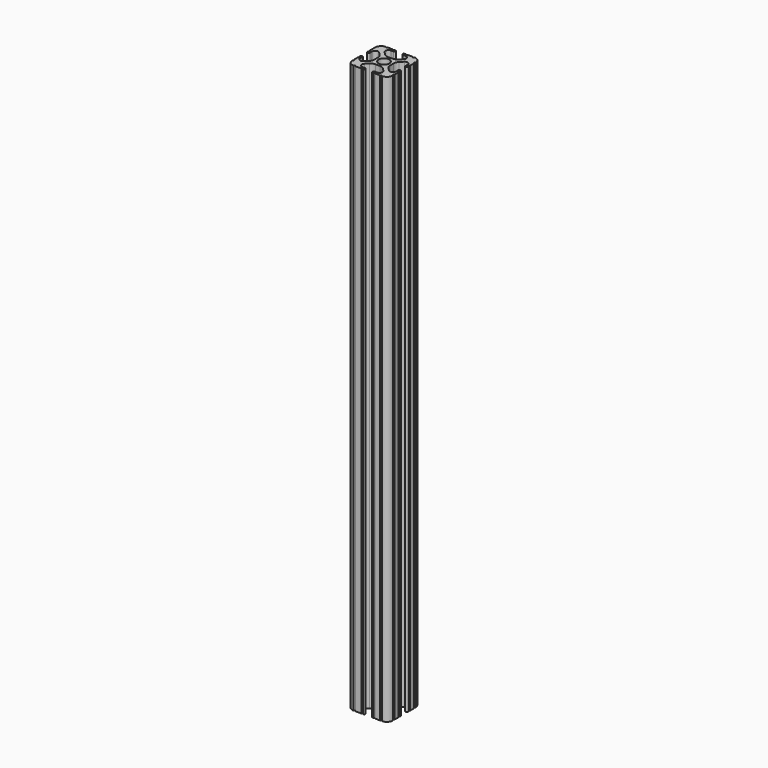
from build123d import *

# Parameters (mm, degrees)
F0_R     = 3.362501
F1_DEPTH = 355.6


with BuildPart() as f1:
    # F0 (on Top) → F1 (new body)
    with BuildSketch(Plane.XY):
        with BuildLine():
            ThreePointArc((-8.548576, 18.755238), (-9.784629, 17.929334), (-11.242653, 17.639315))
            Line((-11.242653, 17.639315), (-14.157347, 17.639315))
            ThreePointArc((-14.157347, 17.639315), (-15.615371, 17.929334), (-16.851424, 18.755238))
            Line((-16.851424, 18.755238), (-18.696905, 20.600719))
            ThreePointArc((-18.696905, 20.600719), (-19.109857, 22.67677), (-17.349867, 23.852758))
            Line((-17.349867, 23.852758), (-15.615371, 23.852758))
            Line((-15.615371, 23.852758), (-15.58302, 23.852758))
            ThreePointArc((-15.58302, 23.852758), (-14.825405, 24.626379), (-15.58302, 25.4))
            Line((-15.58302, 25.4), (-15.615371, 25.4))
            Line((-15.615371, 25.4), (-16.253341, 25.4))
            ThreePointArc((-16.253341, 25.4), (-16.801604, 24.858772), (-17.349867, 25.4))
            Line((-17.349867, 25.4), (-20.487482, 25.4))
            ThreePointArc((-20.487482, 25.4), (-21.038741, 24.848741), (-21.59, 25.4))
            ThreePointArc((-21.59, 25.4), (-24.284077, 24.284077), (-25.4, 21.59))
            Line((-25.4, 21.59), (-25.4, 20.504724))
            Line((-25.4, 20.504724), (-25.4, 17.349867))
            ThreePointArc((-25.4, 17.349867), (-24.844161, 16.802675), (-25.4, 16.255483))
            Line((-25.4, 16.255483), (-25.4, 15.615371))
            ThreePointArc((-25.4, 15.615371), (-24.626379, 14.859554), (-23.852758, 15.615371))
            Line((-23.852758, 15.615371), (-23.852758, 17.349867))
            ThreePointArc((-23.852758, 17.349867), (-22.67677, 19.109857), (-20.600719, 18.696905))
            Line((-20.600719, 18.696905), (-18.755238, 16.851424))
            ThreePointArc((-18.755238, 16.851424), (-17.929334, 15.615371), (-17.639315, 14.157347))
            Line((-17.639315, 14.157347), (-17.639315, 11.242653))
            ThreePointArc((-17.639315, 11.242653), (-17.929334, 9.784629), (-18.755238, 8.548576))
            Line((-18.755238, 8.548576), (-20.600719, 6.703095))
            ThreePointArc((-20.600719, 6.703095), (-22.67677, 6.290143), (-23.852758, 8.050133))
            Line((-23.852758, 8.050133), (-23.852758, 9.784629))
            ThreePointArc((-23.852758, 9.784629), (-24.626379, 10.55825), (-25.4, 9.784629))
            Line((-25.4, 9.784629), (-25.4, 9.149239))
            ThreePointArc((-25.4, 9.149239), (-24.899374, 8.599686), (-25.4, 8.050133))
            Line((-25.4, 8.050133), (-25.4, 4.904538))
            ThreePointArc((-25.4, 4.904538), (-24.846216, 4.357269), (-25.4, 3.81))
            ThreePointArc((-25.4, 3.81), (-24.284077, 1.115923), (-21.59, 0))
            ThreePointArc((-21.59, 0), (-21.040817, 0.554885), (-20.491634, 0))
            Line((-20.491634, 0), (-16.708169, 0))
            ThreePointArc((-16.708169, 0), (-16.16177, 0.540135), (-15.615371, 0))
            ThreePointArc((-15.615371, 0), (-14.854184, 0.7747), (-15.615371, 1.5494))
            Line((-15.615371, 1.5494), (-17.347709, 1.5494))
            ThreePointArc((-17.347709, 1.5494), (-19.107699, 2.725388), (-18.694747, 4.801438))
            Line((-18.694747, 4.801438), (-16.851424, 6.644762))
            ThreePointArc((-16.851424, 6.644762), (-15.615371, 7.470666), (-14.157347, 7.760685))
            Line((-14.157347, 7.760685), (-11.242653, 7.760685))
            ThreePointArc((-11.242653, 7.760685), (-9.784629, 7.470666), (-8.548576, 6.644762))
            Line((-8.548576, 6.644762), (-6.705253, 4.801438))
            ThreePointArc((-6.705253, 4.801438), (-6.292301, 2.725388), (-8.052291, 1.5494))
            Line((-8.052291, 1.5494), (-9.784629, 1.5494))
            ThreePointArc((-9.784629, 1.5494), (-10.401836, 0.7747), (-9.784629, 0))
            Line((-9.784629, 0), (-9.152868, 0))
            ThreePointArc((-9.152868, 0), (-8.602579, 0.545262), (-8.052291, 0))
            Line((-8.052291, 0), (-4.898866, 0))
            ThreePointArc((-4.898866, 0), (-4.354433, 0.544433), (-3.81, 0))
            ThreePointArc((-3.81, 0), (-1.115923, 1.115923), (0, 3.81))
            ThreePointArc((0, 3.81), (-0.53938, 4.3561), (0, 4.9022))
            Line((0, 4.9022), (0, 8.052291))
            ThreePointArc((0, 8.052291), (-0.543517, 8.60166), (0, 9.151029))
            Line((0, 9.151029), (0, 9.784629))
            ThreePointArc((0, 9.784629), (-0.7747, 10.504691), (-1.5494, 9.784629))
            Line((-1.5494, 9.784629), (-1.5494, 8.052291))
            ThreePointArc((-1.5494, 8.052291), (-2.725388, 6.292301), (-4.801438, 6.705253))
            Line((-4.801438, 6.705253), (-6.644762, 8.548576))
            ThreePointArc((-6.644762, 8.548576), (-7.470666, 9.784629), (-7.760685, 11.242653))
            Line((-7.760685, 11.242653), (-7.760685, 14.157347))
            ThreePointArc((-7.760685, 14.157347), (-7.470666, 15.615371), (-6.644762, 16.851424))
            Line((-6.644762, 16.851424), (-4.801438, 18.694747))
            ThreePointArc((-4.801438, 18.694747), (-2.725388, 19.107699), (-1.5494, 17.347709))
            Line((-1.5494, 17.347709), (-1.5494, 15.615371))
            ThreePointArc((-1.5494, 15.615371), (-0.7747, 14.879405), (0, 15.615371))
            Line((0, 15.615371), (0, 16.255509))
            ThreePointArc((0, 16.255509), (-0.5461, 16.801609), (0, 17.347709))
            Line((0, 17.347709), (0, 20.495165))
            ThreePointArc((0, 20.495165), (-0.551056, 21.042583), (0, 21.59))
            ThreePointArc((0, 21.59), (-1.115923, 24.284077), (-3.81, 25.4))
            ThreePointArc((-3.81, 25.4), (-4.365303, 24.903619), (-4.920606, 25.4))
            Line((-4.920606, 25.4), (-8.050133, 25.4))
            ThreePointArc((-8.050133, 25.4), (-8.596365, 24.859433), (-9.142596, 25.4))
            Line((-9.142596, 25.4), (-9.784629, 25.4))
            Line((-9.784629, 25.4), (-9.856203, 25.4))
            ThreePointArc((-9.856203, 25.4), (-10.594864, 24.626379), (-9.856203, 23.852758))
            Line((-9.856203, 23.852758), (-9.784629, 23.852758))
            Line((-9.784629, 23.852758), (-8.050133, 23.852758))
            ThreePointArc((-8.050133, 23.852758), (-6.290143, 22.67677), (-6.703095, 20.600719))
            Line((-6.703095, 20.600719), (-8.548576, 18.755238))
        make_face()
        with Locations((-12.7, 12.7)):
            Circle(F0_R, mode=Mode.SUBTRACT)
        with BuildLine():
            ThreePointArc((-9.856203, 23.852758), (-9.820416, 23.851931), (-9.784629, 23.852758))
            Line((-9.784629, 23.852758), (-9.856203, 23.852758))
        make_face()
        with BuildLine():
            Line((-15.58302, 23.852758), (-15.615371, 23.852758))
            ThreePointArc((-15.615371, 23.852758), (-15.599195, 23.852589), (-15.58302, 23.852758))
        make_face()
        with BuildLine():
            ThreePointArc((-9.784629, 25.4), (-9.820416, 25.400827), (-9.856203, 25.4))
            Line((-9.856203, 25.4), (-9.784629, 25.4))
        make_face()
        with BuildLine():
            Line((-15.615371, 25.4), (-15.58302, 25.4))
            ThreePointArc((-15.58302, 25.4), (-15.599195, 25.400169), (-15.615371, 25.4))
        make_face()
    extrude(amount=F1_DEPTH)


solid = f1.part
